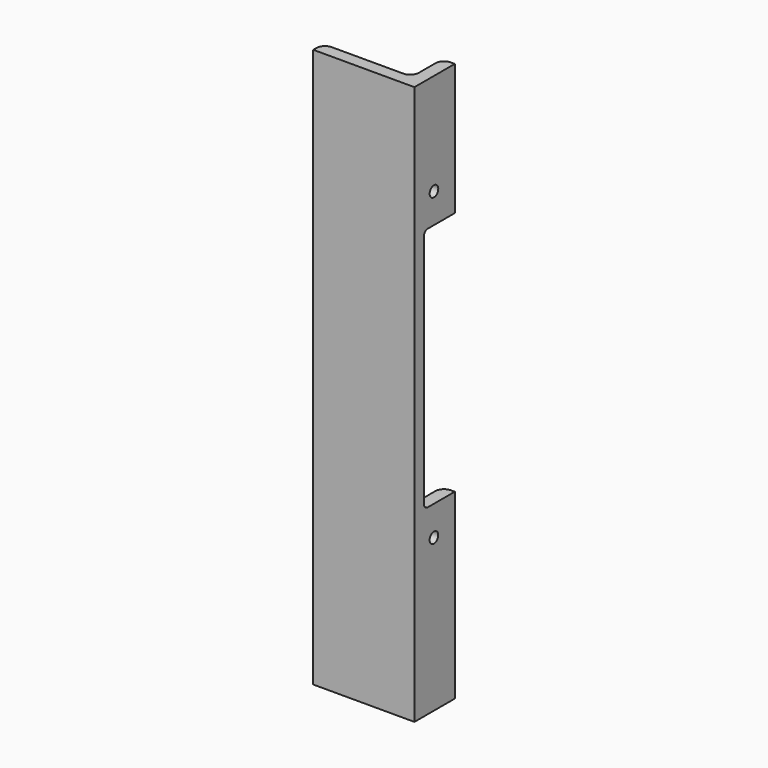
from build123d import *

# Parameters (mm, degrees)
F1_DEPTH = 139.7
F2_R     = 1.3462
F3_DEPTH = 25.2994
F5_DEPTH = 25.2994


with BuildPart() as f1:
    # F0 (on Top) → F1 (new body)
    with BuildSketch(Plane.XY):
        with BuildLine():
            Line((-15.458836, -4.64103), (-15.458836, -5.60623))
            Line((-15.458836, -5.60623), (9.839564, -5.60623))
            Line((9.839564, -5.60623), (9.839564, 6.99217))
            Line((9.839564, 6.99217), (8.874364, 6.99217))
            ThreePointArc((8.874364, 6.99217), (7.34772, 6.359813), (6.715364, 4.83317))
            Line((6.715364, 4.83317), (6.715364, -0.32303))
            ThreePointArc((6.715364, -0.32303), (6.083007, -1.849674), (4.556364, -2.48203))
            Line((4.556364, -2.48203), (-13.299836, -2.48203))
            ThreePointArc((-13.299836, -2.48203), (-14.82648, -3.114387), (-15.458836, -4.64103))
        make_face()
    extrude(amount=F1_DEPTH)

    # F2 (on face) → F3 (cut, through all)
    with BuildSketch(Plane.YZ.offset(9.839564)):
        with Locations((0.48977, 38.1)):
            Circle(F2_R)
        with Locations((0.48977, 114.3)):
            Circle(F2_R)
    extrude(amount=-F3_DEPTH, mode=Mode.SUBTRACT)

    # F4 (on face) → F5 (cut, through all)
    with BuildSketch(Plane.YZ.offset(9.839564)):
        with BuildLine():
            Line((-1.41523, 45.5422), (6.99217, 45.5422))
            Line((6.99217, 45.5422), (6.99217, 106.8578))
            Line((6.99217, 106.8578), (-1.41523, 106.8578))
            ThreePointArc((-1.41523, 106.8578), (-2.313256, 106.485826), (-2.68523, 105.5878))
            Line((-2.68523, 105.5878), (-2.68523, 46.8122))
            ThreePointArc((-2.68523, 46.8122), (-2.313256, 45.914174), (-1.41523, 45.5422))
        make_face()
    extrude(amount=-F5_DEPTH, mode=Mode.SUBTRACT)


solid = f1.part
